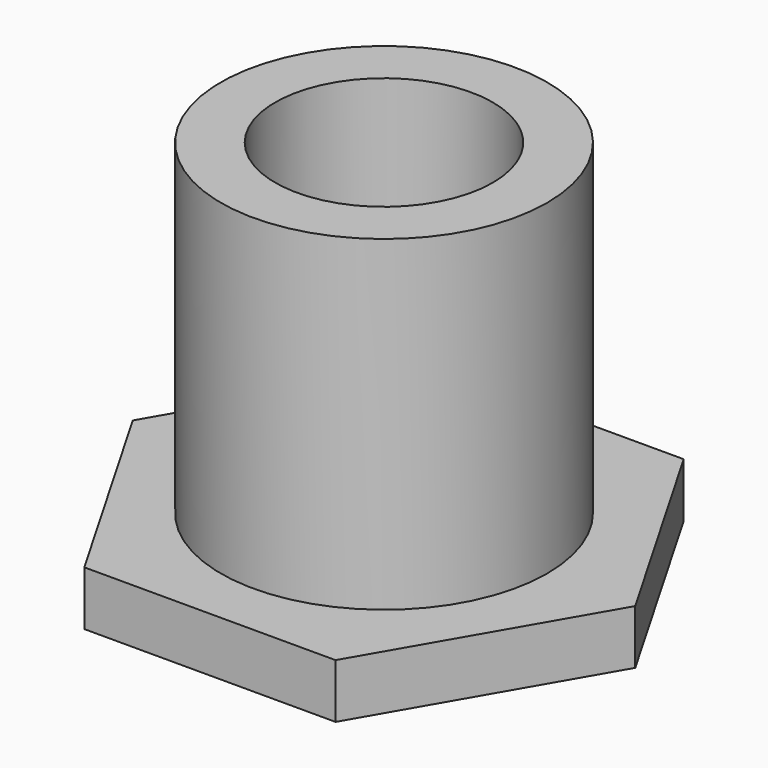
from build123d import *

# Parameters (mm, degrees)
F1_DEPTH = 3.175
F2_R     = 9.525
F2_R_2   = 6.35
F3_DEPTH = 19.05


with BuildPart() as f1:
    # F0 (on Top) → F1 (new body)
    with BuildSketch(Plane.XY):
        Polygon((-7.332348, -12.7), (7.332348, -12.7), (14.664697, 0), (7.332348, 12.7), (-7.332348, 12.7), (-14.664697, 0), align=None)
    extrude(amount=F1_DEPTH)

    # F2 (on face) → F3 (join)
    with BuildSketch(Plane.XY.offset(3.175)):
        Circle(F2_R)
        Circle(F2_R_2, mode=Mode.SUBTRACT)
    extrude(amount=F3_DEPTH)


solid = f1.part
